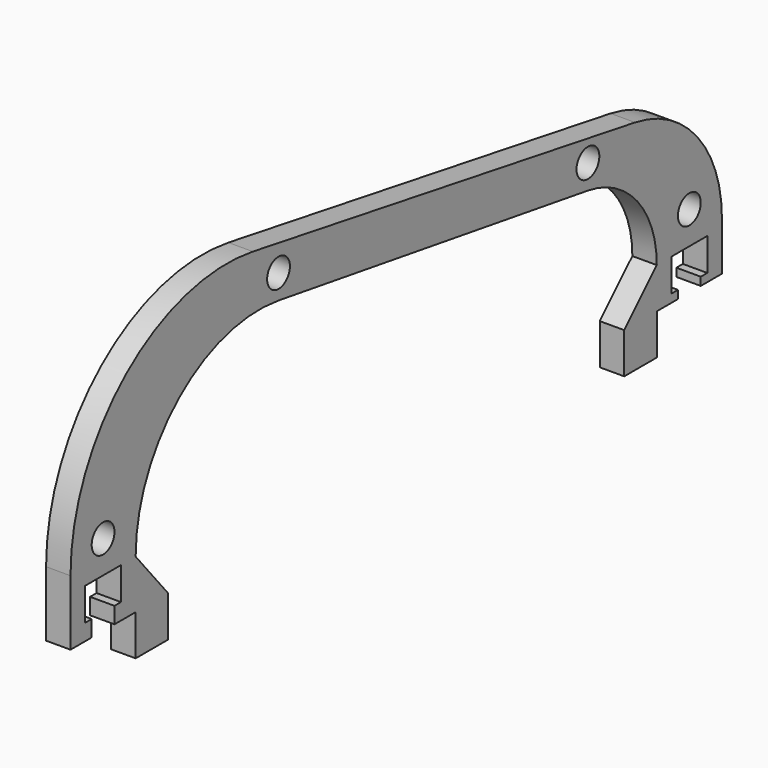
from build123d import *

# Parameters (mm, degrees)
F1_R     = 1.75
F2_DEPTH = 3


with BuildPart() as f2:
    # F1 (on Right) → F2 (new body)
    with BuildSketch(Plane.YZ):
        with BuildLine():
            Line((-50, 8), (-50, 0))
            Line((-50, 0), (-46.75, 0))
            Line((-46.75, 0), (-46.75, 2))
            Line((-46.75, 2), (-47.75, 2))
            Line((-47.75, 2), (-47.75, 6))
            Line((-47.75, 6), (-42.25, 6))
            Line((-42.25, 6), (-42.25, 2))
            Line((-42.25, 2), (-43.25, 2))
            Line((-43.25, 2), (-43.25, 0))
            Line((-43.25, 0), (-40, 0))
            Line((-40, 0), (-40, -5))
            Line((-40, -5), (-35, -5))
            Line((-35, -5), (-35, 0))
            Line((-35, 0), (-40, 6))
            ThreePointArc((-40, 6), (-33.354443, 20.434949), (-18.066553, 24.772184))
            Line((-18.066553, 24.772184), (29.429899, 17.350121))
            ThreePointArc((29.429899, 17.350121), (36.996677, 13.127923), (40, 5))
            Line((40, 5), (35, 0))
            Line((35, 0), (35, -5))
            Line((35, -5), (40, -5))
            Line((40, -5), (40, 0))
            Line((40, 0), (43.25, 0))
            Line((43.25, 0), (43.25, 1))
            Line((43.25, 1), (42.25, 1))
            Line((42.25, 1), (42.25, 5))
            Line((42.25, 5), (47.75, 5))
            Line((47.75, 5), (47.75, 1))
            Line((47.75, 1), (46.75, 1))
            Line((46.75, 1), (46.75, 0))
            Line((46.75, 0), (50, 0))
            Line((50, 0), (50, 6))
            ThreePointArc((50, 6), (46.217774, 16.330828), (36.659249, 21.777465))
            Line((36.659249, 21.777465), (-22.011127, 31.666197))
            ThreePointArc((-22.011127, 31.666197), (-41.496242, 26.32666), (-50, 8))
        make_face()
        with Locations((-45, 10)):
            Circle(F1_R, mode=Mode.SUBTRACT)
        with Locations((45, 9)):
            Circle(F1_R, mode=Mode.SUBTRACT)
        with Locations((-18.066553, 27.772184)):
            Circle(F1_R, mode=Mode.SUBTRACT)
        with Locations((29.429899, 20.350121)):
            Circle(F1_R, mode=Mode.SUBTRACT)
    extrude(amount=F2_DEPTH)


solid = f2.part
